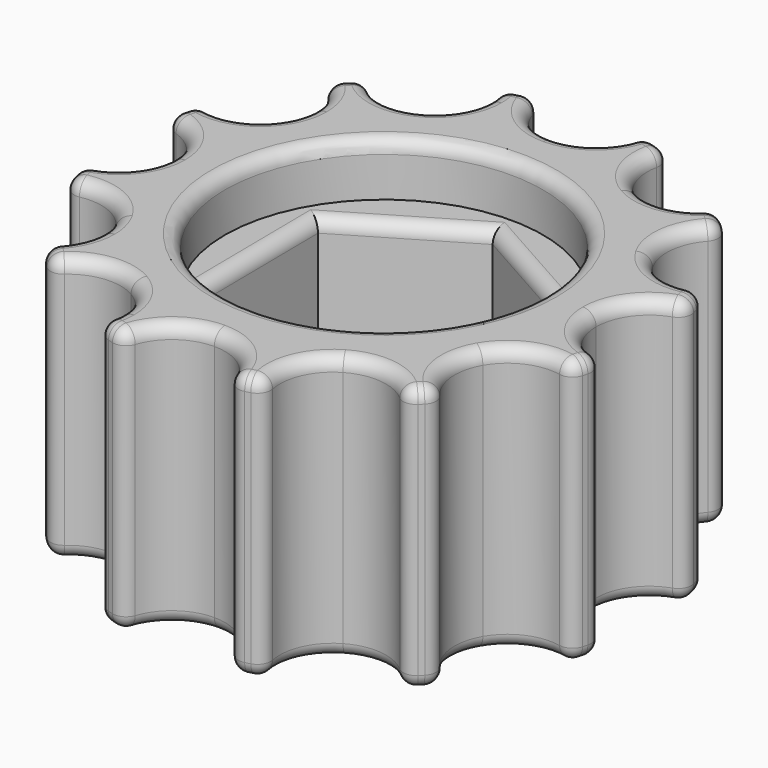
from build123d import *

# Parameters (mm, degrees)
F0_R     = 2.5
F1_DEPTH = 10
F2_DEPTH = 25
F3_R     = 6
F3_R_2   = 2.5
F4_DEPTH = 2
F5_DEPTH = 6
F6_R     = 0.5
F7_R     = 0.5


with BuildPart() as f1:
    # F0 (on Top) → F1 (new body)
    with BuildSketch(Plane.XY):
        with BuildLine():
            ThreePointArc((6.9282032635, -3.9999999425), (7.7274066189, -2.0705523288), (8, 0))
            ThreePointArc((8, 0), (7.7274066088, 2.0705523664), (6.9282032245, 4.0000000099))
            ThreePointArc((6.9282032245, 4.0000000099), (5.6568542651, 5.6568542339), (4.0000000483, 6.9282032024))
            ThreePointArc((4.0000000483, 6.9282032024), (2.0705523762, 7.7274066062), (-2.39e-08, 8))
            ThreePointArc((-2.39e-08, 8), (-2.0705523824, 7.7274066045), (-4.0000000181, 6.9282032198))
            ThreePointArc((-4.0000000181, 6.9282032198), (-5.6568542741, 5.6568542249), (-6.9282032546, 3.9999999578))
            ThreePointArc((-6.9282032546, 3.9999999578), (-7.7274066166, 2.0705523373), (-8, 0))
            ThreePointArc((-8, 0), (-7.7274066101, -2.0705523615), (-6.9282032296, -4.0000000011))
            ThreePointArc((-6.9282032296, -4.0000000011), (-5.6568542564, -5.6568542426), (-4.0000000181, -6.9282032198))
            ThreePointArc((-4.0000000181, -6.9282032198), (-2.0705523673, -7.7274066086), (7.4e-09, -8))
            ThreePointArc((7.4e-09, -8), (2.0705524185, -7.7274065949), (4.000000097, -6.9282031742))
            ThreePointArc((4.000000097, -6.9282031742), (5.6568543126, -5.6568541864), (6.9282032635, -3.9999999425))
        make_face()
        Circle(F0_R, mode=Mode.SUBTRACT)
        with BuildLine():
            ThreePointArc((-6.9282032546, 3.9999999578), (-5.6568542741, 5.6568542249), (-4.0000000181, 6.9282032198))
            ThreePointArc((-4.0000000181, 6.9282032198), (-5.4202751654, 6.7049103889), (-6.623368794, 7.49206152))
            ThreePointArc((-6.623368794, 7.49206152), (-7.0710678119, 7.0710678119), (-7.49206152, 6.623368794))
            ThreePointArc((-7.49206152, 6.623368794), (-6.8803123203, 5.9120348031), (-6.6602540378, 5))
            ThreePointArc((-6.6602540378, 5), (-6.7284023916, 4.4823618863), (-6.9282032546, 3.9999999578))
        make_face()
        with BuildLine():
            ThreePointArc((-4.0000000181, 6.9282032198), (-2.0705523824, 7.7274066045), (-2.39e-08, 8))
            ThreePointArc((-2.39e-08, 8), (-1.3416407954, 8.5167603106), (-1.9899748742, 9.8))
            ThreePointArc((-1.9899748742, 9.8), (-2.588190451, 9.6592582629), (-3.176631206, 9.4820363942))
            ThreePointArc((-3.176631206, 9.4820363942), (-3.0446563489, 9.080529193), (-3, 8.6602540378))
            ThreePointArc((-3, 8.6602540378), (-3.2679491977, 7.6602540288), (-4.0000000181, 6.9282032198))
        make_face()
        with BuildLine():
            ThreePointArc((-2.39e-08, 8), (2.0705523762, 7.7274066062), (4.0000000483, 6.9282032024))
            ThreePointArc((4.0000000483, 6.9282032024), (3.096485156, 8.0465511467), (3.176631206, 9.4820363942))
            ThreePointArc((3.176631206, 9.4820363942), (2.588190451, 9.6592582629), (1.9899748742, 9.8))
            ThreePointArc((1.9899748742, 9.8), (1.3416407776, 8.5167602946), (-2.39e-08, 8))
        make_face()
        with BuildLine():
            ThreePointArc((6.9282032245, 4.0000000099), (6.7049103879, 5.4202751608), (7.49206152, 6.623368794))
            ThreePointArc((7.49206152, 6.623368794), (7.0710678119, 7.0710678119), (6.623368794, 7.49206152))
            ThreePointArc((6.623368794, 7.49206152), (5.4202751824, 6.7049103926), (4.0000000483, 6.9282032024))
            ThreePointArc((4.0000000483, 6.9282032024), (5.6568542651, 5.6568542339), (6.9282032245, 4.0000000099))
        make_face()
        with BuildLine():
            ThreePointArc((8, 0), (8.5167603026, 1.3416407865), (9.8, 1.9899748742))
            ThreePointArc((9.8, 1.9899748742), (9.6592582629, 2.588190451), (9.4820363942, 3.176631206))
            ThreePointArc((9.4820363942, 3.176631206), (8.0465511678, 3.0964851492), (6.9282032245, 4.0000000099))
            ThreePointArc((6.9282032245, 4.0000000099), (7.7274066088, 2.0705523664), (8, 0))
        make_face()
        with BuildLine():
            ThreePointArc((9.4820363942, -3.176631206), (9.6592582629, -2.588190451), (9.8, -1.9899748742))
            ThreePointArc((9.8, -1.9899748742), (8.5167603026, -1.3416407865), (8, 0))
            ThreePointArc((8, 0), (7.7274066189, -2.0705523288), (6.9282032635, -3.9999999425))
            ThreePointArc((6.9282032635, -3.9999999425), (8.0465512048, -3.0964851372), (9.4820363942, -3.176631206))
        make_face()
        with BuildLine():
            ThreePointArc((7.49206152, -6.623368794), (6.7049103798, -5.4202751227), (6.9282032635, -3.9999999425))
            ThreePointArc((6.9282032635, -3.9999999425), (5.6568543126, -5.6568541864), (4.000000097, -6.9282031742))
            ThreePointArc((4.000000097, -6.9282031742), (5.4202752099, -6.7049103985), (6.623368794, -7.49206152))
            ThreePointArc((6.623368794, -7.49206152), (7.0710678119, -7.0710678119), (7.49206152, -6.623368794))
        make_face()
        with BuildLine():
            ThreePointArc((3.176631206, -9.4820363942), (3.0964851646, -8.0465511199), (4.000000097, -6.9282031742))
            ThreePointArc((4.000000097, -6.9282031742), (2.0705524185, -7.7274065949), (7.4e-09, -8))
            ThreePointArc((7.4e-09, -8), (1.3416407892, -8.5167603051), (1.9899748742, -9.8))
            ThreePointArc((1.9899748742, -9.8), (2.588190451, -9.6592582629), (3.176631206, -9.4820363942))
        make_face()
        with BuildLine():
            ThreePointArc((-1.9899748742, -9.8), (-1.3416407838, -8.5167603001), (7.4e-09, -8))
            ThreePointArc((7.4e-09, -8), (-2.0705523673, -7.7274066086), (-4.0000000181, -6.9282032198))
            ThreePointArc((-4.0000000181, -6.9282032198), (-3.2679491977, -7.6602540288), (-3, -8.6602540378))
            ThreePointArc((-3, -8.6602540378), (-3.0446563489, -9.080529193), (-3.176631206, -9.4820363942))
            ThreePointArc((-3.176631206, -9.4820363942), (-2.588190451, -9.6592582629), (-1.9899748742, -9.8))
        make_face()
        with BuildLine():
            ThreePointArc((-6.623368794, -7.49206152), (-5.4202751654, -6.7049103889), (-4.0000000181, -6.9282032198))
            ThreePointArc((-4.0000000181, -6.9282032198), (-5.6568542564, -5.6568542426), (-6.9282032296, -4.0000000011))
            ThreePointArc((-6.9282032296, -4.0000000011), (-6.7284023851, -4.4823619104), (-6.6602540378, -5))
            ThreePointArc((-6.6602540378, -5), (-6.8803123203, -5.9120348031), (-7.49206152, -6.623368794))
            ThreePointArc((-7.49206152, -6.623368794), (-7.0710678119, -7.0710678119), (-6.623368794, -7.49206152))
        make_face()
        with BuildLine():
            ThreePointArc((-9.4820363942, -3.176631206), (-8.0465511726, -3.0964851476), (-6.9282032296, -4.0000000011))
            ThreePointArc((-6.9282032296, -4.0000000011), (-7.7274066101, -2.0705523615), (-8, 0))
            ThreePointArc((-8, 0), (-8.5167603026, -1.3416407865), (-9.8, -1.9899748742))
            ThreePointArc((-9.8, -1.9899748742), (-9.6592582629, -2.588190451), (-9.4820363942, -3.176631206))
        make_face()
        with BuildLine():
            ThreePointArc((-8, 0), (-7.7274066166, 2.0705523373), (-6.9282032546, 3.9999999578))
            ThreePointArc((-6.9282032546, 3.9999999578), (-8.0465511964, 3.09648514), (-9.4820363942, 3.176631206))
            ThreePointArc((-9.4820363942, 3.176631206), (-9.6592582629, 2.588190451), (-9.8, 1.9899748742))
            ThreePointArc((-9.8, 1.9899748742), (-8.5167603026, 1.3416407865), (-8, 0))
        make_face()
    extrude(amount=F1_DEPTH)

    # F0 (on Top) → F2 (cut)
    with BuildSketch(Plane.XY):
        Circle(F0_R)
    extrude(amount=F2_DEPTH, mode=Mode.SUBTRACT)

    # F3 (on face) → F4 (cut)
    with BuildSketch(Plane.XY.offset(10)):
        Circle(F3_R)
        Polygon((4.4709110757, 2.6478206422), (4.5285354787, -2.5480122485), (0.057624403, -5.1958328907), (-4.4709110757, -2.6478206422), (-4.5285354787, 2.5480122485), (-0.057624403, 5.1958328907), align=None, mode=Mode.SUBTRACT)
        Polygon((0.057624403, -5.1958328907), (4.5285354787, -2.5480122485), (4.4709110757, 2.6478206422), (-0.057624403, 5.1958328907), (-4.5285354787, 2.5480122485), (-4.4709110757, -2.6478206422), align=None)
        Circle(F3_R_2, mode=Mode.SUBTRACT)
    extrude(amount=-F4_DEPTH, mode=Mode.SUBTRACT)

    # F3 (on face) → F5 (cut)
    with BuildSketch(Plane.XY.offset(10)):
        Polygon((0.057624403, -5.1958328907), (4.5285354787, -2.5480122485), (4.4709110757, 2.6478206422), (-0.057624403, 5.1958328907), (-4.5285354787, 2.5480122485), (-4.4709110757, -2.6478206422), align=None)
        Circle(F3_R_2, mode=Mode.SUBTRACT)
    extrude(amount=-F5_DEPTH, mode=Mode.SUBTRACT)

    # F6
    f6_edges = [f1.edges().sort_by_distance(p)[0] for p in [
        (-7.492062, -6.623369, 5),
        (-6.623369, -7.492062, 5),
        (-7.071068, -7.071068, 0),
        (-7.071068, -7.071068, 10),
        (-3.176631, -9.482036, 5),
        (-1.989975, -9.8, 5),
        (-2.58819, -9.659258, 0),
        (-2.58819, -9.659258, 10),
        (1.989975, -9.8, 5),
        (3.176631, -9.482036, 5),
        (2.58819, -9.659258, 0),
        (2.58819, -9.659258, 10),
        (6.623369, -7.492062, 5),
        (7.492062, -6.623369, 5),
        (7.071068, -7.071068, 0),
        (7.071068, -7.071068, 10),
        (9.482036, -3.176631, 5),
        (9.8, -1.989975, 5),
        (9.659258, -2.58819, 0),
        (9.659258, -2.58819, 10),
        (-9.8, -1.989975, 5),
        (-9.482036, -3.176631, 5),
        (-9.659258, -2.58819, 0),
        (-9.659258, -2.58819, 10),
        (-9.482036, 3.176631, 5),
        (-9.8, 1.989975, 5),
        (-9.659258, 2.58819, 0),
        (-9.659258, 2.58819, 10),
        (-6.623369, 7.492062, 5),
        (-7.492062, 6.623369, 5),
        (-7.071068, 7.071068, 0),
        (-7.071068, 7.071068, 10),
        (-1.989975, 9.8, 5),
        (-3.176631, 9.482036, 5),
        (-2.58819, 9.659258, 0),
        (-2.58819, 9.659258, 10),
        (3.176631, 9.482036, 5),
        (1.989975, 9.8, 5),
        (2.58819, 9.659258, 0),
        (2.58819, 9.659258, 10),
        (7.492062, 6.623369, 5),
        (6.623369, 7.492062, 5),
        (7.071068, 7.071068, 0),
        (7.071068, 7.071068, 10),
        (9.8, 1.989975, 5),
        (9.482036, 3.176631, 5),
        (9.659258, 2.58819, 0),
        (9.659258, 2.58819, 10),
        (-4, 6.928203, 10),
        (-6.928203, 4, 10),
        (0, 8, 10),
        (-8, 0, 10),
        (4, 6.928203, 10),
        (-6.928203, -4, 10),
        (6.928203, 4, 10),
        (-4, -6.928203, 10),
        (8, 0, 10),
        (0, -8, 10),
        (6.928203, -4, 10),
        (4, -6.928203, 10),
        (-6, 0, 10),
        (-4, 6.928203, 0),
        (-6.928203, 4, 0),
        (-8, 0, 0),
        (-6.928203, -4, 0),
        (-4, -6.928203, 0),
        (0, -8, 0),
        (4, -6.928203, 0),
        (6.928203, -4, 0),
        (8, 0, 0),
        (6.928203, 4, 0),
        (4, 6.928203, 0),
        (0, 8, 0),
    ]]
    fillet(f6_edges, radius=F6_R)

    # F7
    f7_edges = [f1.edges().sort_by_distance(p)[0] for p in [
        (2.206643, 3.921827, 8),
        (4.499723, 0.049904, 8),
        (2.29308, -3.871923, 8),
        (-2.206643, -3.921827, 8),
        (-2.29308, 3.871923, 8),
        (-4.499723, -0.049904, 8),
    ]]
    fillet(f7_edges, radius=F7_R)


solid = f1.part
